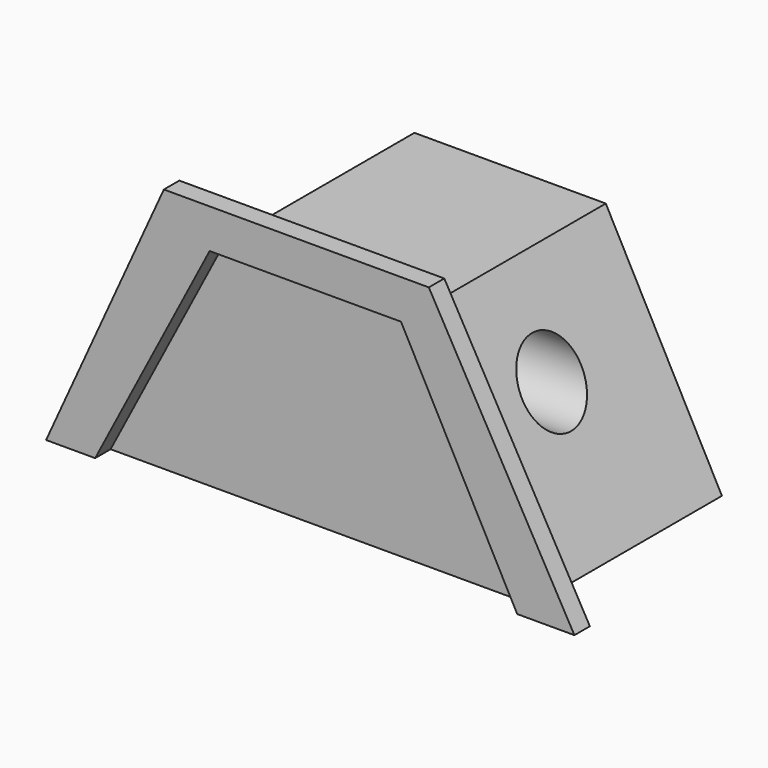
from build123d import *

# Parameters (mm, degrees)
F1_DEPTH = 37.338
F2_R     = 5.822928
F3_DEPTH = 29.972
F5_DEPTH = 3.048


with BuildPart() as f1:
    # F0 (on Front) → F1 (new body)
    with BuildSketch(Plane.XZ):
        Polygon((-12.840316, 34.649491), (-30.907091, 0), (35.681881, 0), (17.357009, 34.649491), align=None)
    extrude(amount=F1_DEPTH)

    # F2 (on Right) → F3 (cut, symmetric)
    with BuildSketch(Plane.YZ):
        with Locations((-20.067023, 20.454168)):
            Circle(F2_R)
    extrude(amount=F3_DEPTH, both=True, mode=Mode.SUBTRACT)


with BuildPart() as f5:
    # F4 (on face) → F5 (new body)
    with BuildSketch(Plane.XZ.offset(37.338)):
        Polygon((-20.067025, 40.843815), (-38.649991, 0), (-30.907091, 0), (-12.840316, 34.649491), (17.357009, 34.649491), (35.681881, 0), (44.71527, 0), (21.744652, 40.843815), align=None)
    extrude(amount=F5_DEPTH)


solid = Compound([f1.part, f5.part])
